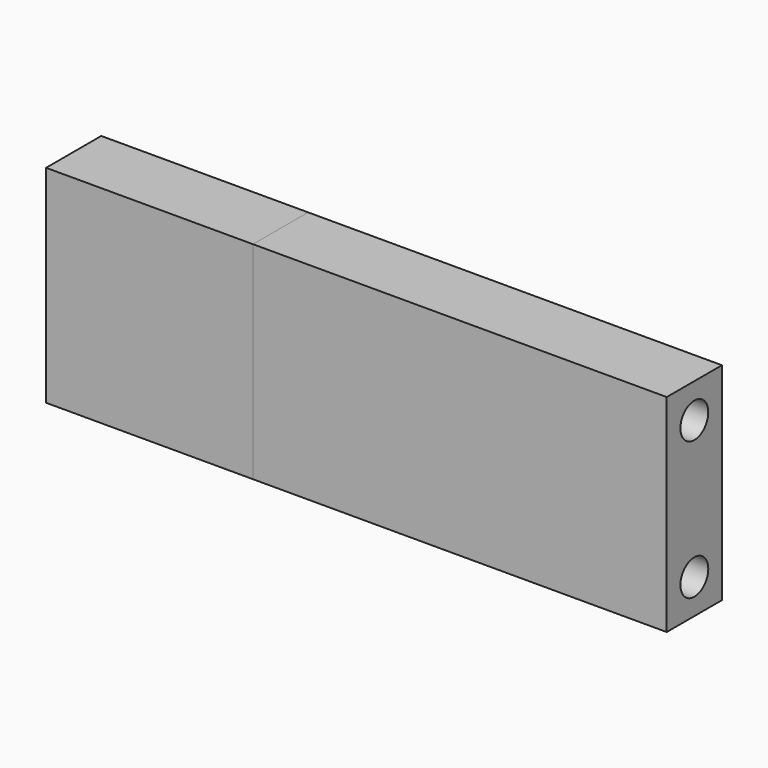
from build123d import *

# Parameters (mm, degrees)
F0_W     = 10
F0_H     = 30
F0_R     = 2.525
F1_DEPTH = 60
F2_W     = 10
F2_H     = 30
F2_R     = 2.525
F3_DEPTH = 30


with BuildPart() as f1:
    # F0 (on Right) → F1 (new body)
    with BuildSketch(Plane.YZ):
        Rectangle(F0_W, F0_H)
        with Locations((0, -10)):
            Circle(F0_R, mode=Mode.SUBTRACT)
        with Locations((0, 10)):
            Circle(F0_R, mode=Mode.SUBTRACT)
    extrude(amount=F1_DEPTH)


with BuildPart() as f3:
    # F2 (on Right) → F3 (new body)
    with BuildSketch(Plane.YZ):
        Rectangle(F2_W, F2_H)
        with Locations((0, -10)):
            Circle(F2_R, mode=Mode.SUBTRACT)
        with Locations((0, 10)):
            Circle(F2_R, mode=Mode.SUBTRACT)
    extrude(amount=-F3_DEPTH)


solid = Compound([f1.part, f3.part])
